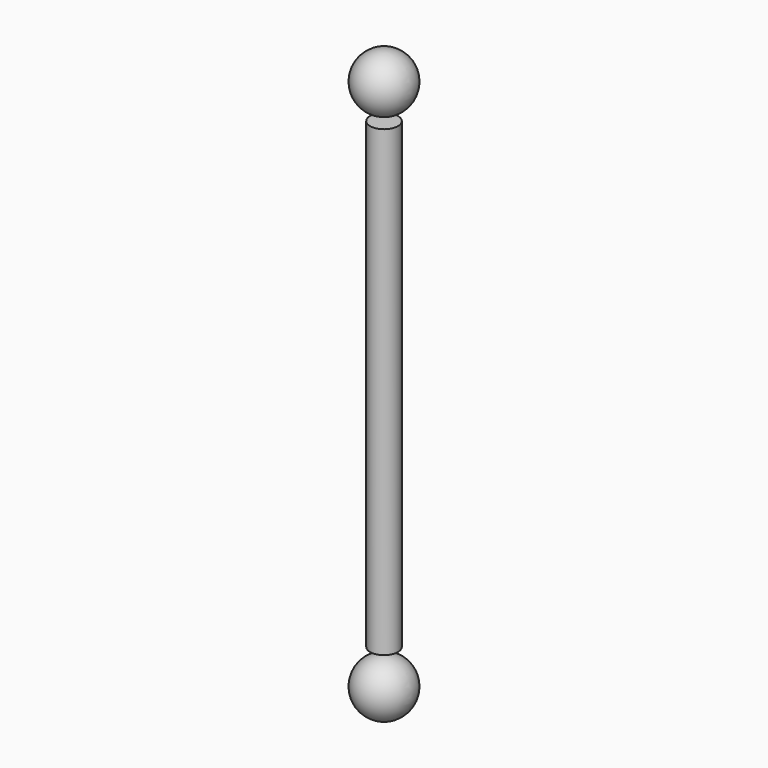
from build123d import *

# Parameters (mm, degrees)
CYLINDER_R     = 30
CYLINDER_DEPTH = 1000


with BuildPart() as sphere:
    # sphere → sphere (revolve)
    with BuildSketch(Plane(origin=(0, 0, -575), x_dir=(1, 0, 0), z_dir=(0, -1, 0))):
        with BuildLine():
            ThreePointArc((0, -60), (60, 0), (0, 60))
            Line((0, 60), (0, -60))
        make_face()
    revolve(axis=Axis((0, 0, -575), (0, 0, 1)))


with BuildPart() as sphere001:
    # sphere001 → sphere001 (revolve)
    with BuildSketch(Plane(origin=(0, 0, 575), x_dir=(1, 0, 0), z_dir=(0, -1, 0))):
        with BuildLine():
            ThreePointArc((0, -60), (60, 0), (0, 60))
            Line((0, 60), (0, -60))
        make_face()
    revolve(axis=Axis((0, 0, 575), (0, 0, 1)))


with BuildPart() as union:
    # cylinder → cylinder (new body)
    with BuildSketch(Plane.XY.offset(-500)):
        Circle(CYLINDER_R)
    extrude(amount=CYLINDER_DEPTH)

    # union: union sphere, sphere001
    add(sphere.part)
    add(sphere001.part)


solid = union.part
